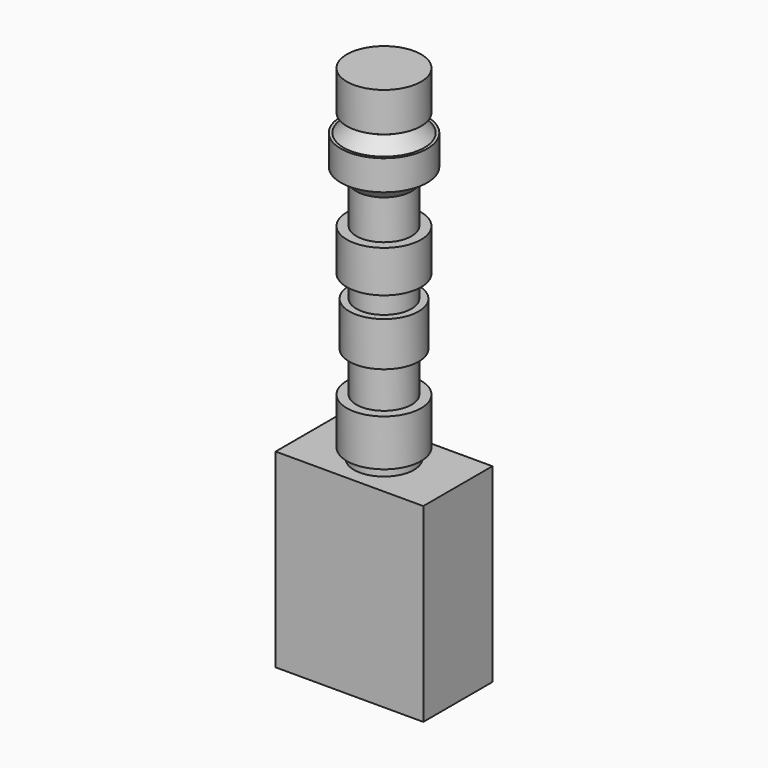
from build123d import *

# Parameters (mm, degrees)
F0_W     = 434.34
F0_H     = 254
F1_DEPTH = 558.8
F2_R     = 88.136421
F3_DEPTH = 76.2


with BuildPart() as f1:
    # F0 (on Top) → F1 (new body)
    with BuildSketch(Plane.XY):
        Rectangle(F0_W, F0_H)
        Rectangle(F0_W, F0_H)
    extrude(amount=F1_DEPTH)

    # F2 (on face) → F3 (join)
    with BuildSketch(Plane.XY.offset(558.8)):
        Circle(F2_R)
    extrude(amount=F3_DEPTH)

    # F4 (on Front) → F5 (revolve)
    with BuildSketch(Plane.XZ):
        Polygon((-109.097786, 588.431537), (0, 588.431537), (0, 725.384057), (0, 843.766749), (0, 1038.749933), (0, 1161.775112), (0, 1570.658565), (-109.097786, 1570.658565), (-109.097786, 1455.510974), (-81.243046, 1455.510974), (-81.243046, 1440.529093), (-118.768431, 1403.003693), (-127.059057, 1403.003693), (-127.059057, 1314.976215), (-118.382715, 1314.976215), (-81.243046, 1277.836561), (-81.243046, 1161.775112), (-109.097786, 1161.775112), (-109.097786, 1038.749933), (-81.243046, 1038.749933), (-81.243046, 973.755538), (-102.134109, 973.755538), (-102.134109, 843.766749), (-81.243046, 843.766749), (-81.243046, 725.384057), (-109.097786, 725.384057), align=None)
        Polygon((-109.097786, 588.431537), (0, 588.431537), (0, 725.384057), (0, 843.766749), (0, 1038.749933), (0, 1161.775112), (0, 1570.658565), (-109.097786, 1570.658565), (-109.097786, 1455.510974), (-81.243046, 1455.510974), (-81.243046, 1440.529093), (-118.768431, 1403.003693), (-127.059057, 1403.003693), (-127.059057, 1314.976215), (-118.382715, 1314.976215), (-81.243046, 1277.836561), (-81.243046, 1161.775112), (-109.097786, 1161.775112), (-109.097786, 1038.749933), (-81.243046, 1038.749933), (-81.243046, 973.755538), (-102.134109, 973.755538), (-102.134109, 843.766749), (-81.243046, 843.766749), (-81.243046, 725.384057), (-109.097786, 725.384057), align=None)
    revolve(axis=Axis((0, 0, 1635.457158), (0, 0, 1)))


solid = f1.part
